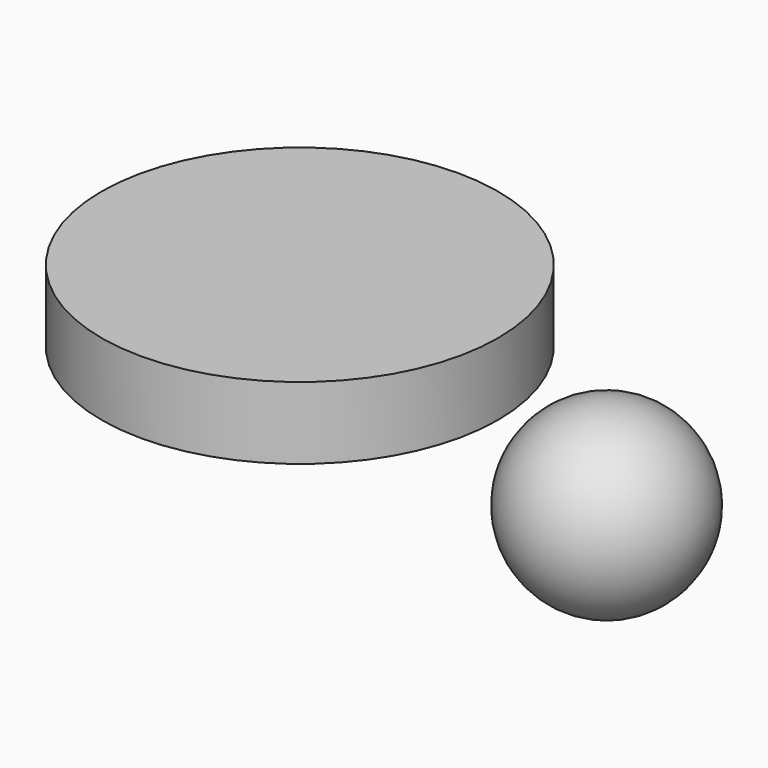
from build123d import *

# Parameters (mm, degrees)
F0_R     = 139.7
F1_DEPTH = 50.8


with BuildPart() as f1:
    # F0 (on Top) → F1 (new body)
    with BuildSketch(Plane.XY):
        with Locations((-44.839293, 35.383981)):
            Circle(F0_R)
    extrude(amount=F1_DEPTH)


with BuildPart() as f3:
    # F2 (on Top) → F3 (revolve)
    with BuildSketch(Plane.XY):
        with BuildLine():
            Line((141.458573, -6.7641), (268.458573, -6.7641))
            ThreePointArc((268.458573, -6.7641), (204.958573, 56.7359), (141.458573, -6.7641))
        make_face()
    revolve(axis=Axis((204.958573, -6.7641, 0), (1, 0, 0)))


solid = Compound([f1.part, f3.part])
